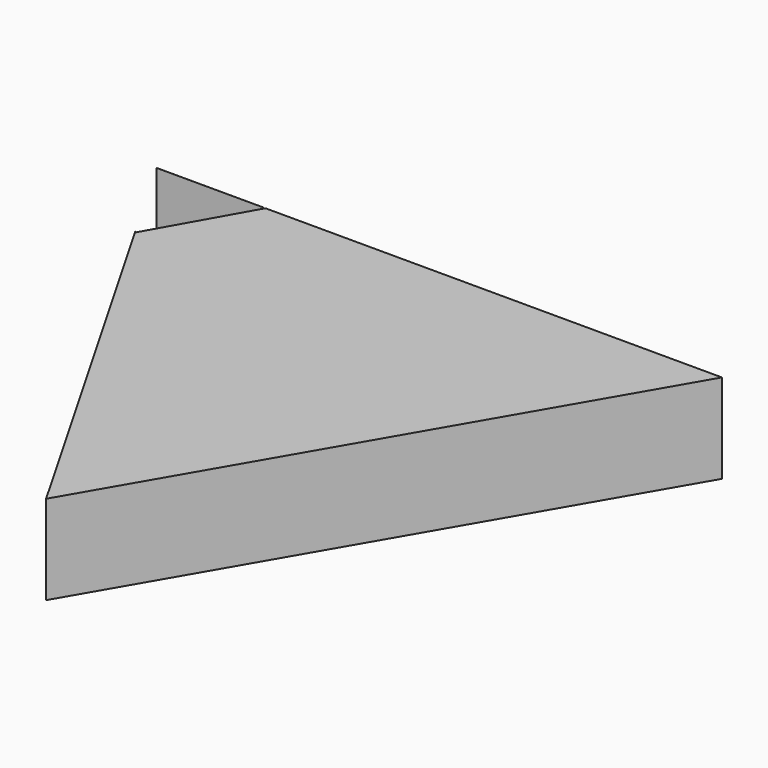
from build123d import *

# Parameters (mm, degrees)
F2_DEPTH = 25.4
F3_DEPTH = 25.4


with BuildPart() as f2:
    # F0 (on Top) → F2 (new body)
    with BuildSketch(Plane.XY):
        Polygon((-0.152973, -93.00384), (80.620175, 46.369442), (-80.467202, 46.634398), align=None)
    extrude(amount=F2_DEPTH)

    # F1 (on face) → F3 (cut)
    with BuildSketch(Plane.XY):
        Polygon((-64.756947, 19.328438), (-49.401836, 46.583762), (-80.576986, 46.616569), align=None)
    extrude(amount=F3_DEPTH, mode=Mode.SUBTRACT)


solid = f2.part
